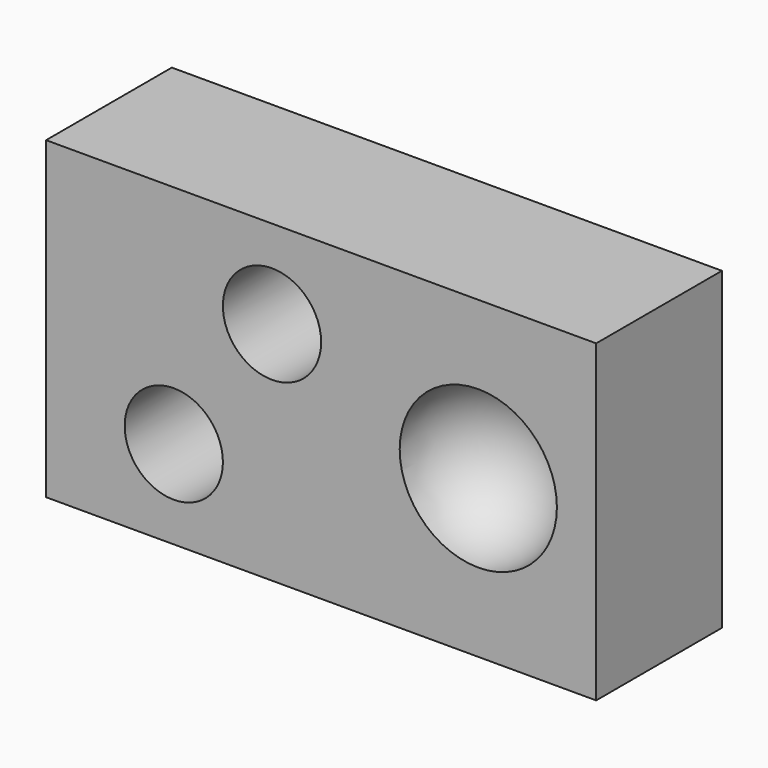
from build123d import *

# Parameters (mm, degrees)
F0_W     = 355.6
F0_H     = 203.2
F0_R     = 31.75
F1_DEPTH = 101.6
F3_DEPTH = 76.2


with BuildPart() as f1:
    # F0 (on Front) → F1 (new body)
    with BuildSketch(Plane.XZ):
        Rectangle(F0_W, F0_H)
        with Locations((-95.25, -44.45)):
            Circle(F0_R, mode=Mode.SUBTRACT)
        with BuildLine():
            ThreePointArc((101.6, 50.8), (152.4, 0), (101.6, -50.8))
            Line((101.6, -50.8), (101.6, 0))
            Line((101.6, 0), (101.6, 50.8))
        make_face(mode=Mode.SUBTRACT)
        with Locations((-31.75, 44.45)):
            Circle(F0_R, mode=Mode.SUBTRACT)
        with BuildLine():
            Line((101.6, 0), (101.6, -50.8))
            ThreePointArc((101.6, -50.8), (152.4, 0), (101.6, 50.8))
            Line((101.6, 50.8), (101.6, 0))
        make_face()
        with Locations((-31.75, 44.45)):
            Circle(F0_R)
        with Locations((-95.25, -44.45)):
            Circle(F0_R)
    extrude(amount=-F1_DEPTH)

    # F0 (on Front) → F2 (revolve, cut)
    with BuildSketch(Plane.XZ):
        with BuildLine():
            Line((101.6, 0), (101.6, -50.8))
            ThreePointArc((101.6, -50.8), (152.4, 0), (101.6, 50.8))
            Line((101.6, 50.8), (101.6, 0))
        make_face()
    revolve(axis=Axis((101.6, 0, 0), (0, 0, 1)), mode=Mode.SUBTRACT)

    # F0 (on Front) → F3 (cut)
    with BuildSketch(Plane.XZ):
        with Locations((-31.75, 44.45)):
            Circle(F0_R)
        with Locations((-95.25, -44.45)):
            Circle(F0_R)
    extrude(amount=-F3_DEPTH, mode=Mode.SUBTRACT)


solid = f1.part
